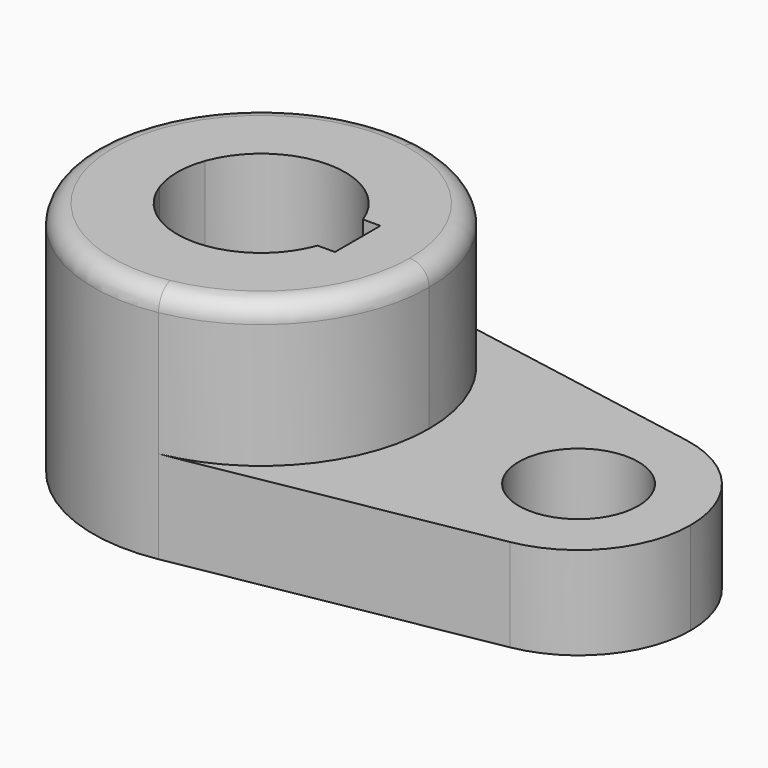
from build123d import *

# Parameters (mm, degrees)
F1_DEPTH = 40.2336
F0_R     = 10.16
F2_DEPTH = 15.7734
F3_R     = 3.302


with BuildPart() as f1:
    # F0 (on Top) → F1 (new body)
    with BuildSketch(Plane.XY):
        with BuildLine():
            ThreePointArc((-45.510295, 28.126541), (-79.127942, 0), (-45.510295, -28.126541))
            ThreePointArc((-45.510295, -28.126541), (-28.636917, -18.336262), (-21.977942, 0))
            ThreePointArc((-21.977942, 0), (-28.636917, 18.336262), (-45.510295, 28.126541))
        make_face()
        with BuildLine():
            ThreePointArc((-64.000707, 4.826), (-50.552942, 14.2875), (-37.105177, 4.826))
            Line((-37.105177, 4.826), (-34.144542, 4.826))
            Line((-34.144542, 4.826), (-34.144542, -4.826))
            Line((-34.144542, -4.826), (-37.105177, -4.826))
            ThreePointArc((-37.105177, -4.826), (-50.552942, -14.2875), (-64.000707, -4.826))
            ThreePointArc((-64.000707, -4.826), (-64.840442, 0), (-64.000707, 4.826))
        make_face(mode=Mode.SUBTRACT)
    extrude(amount=F1_DEPTH)

    # F0 (on Top) → F2 (join)
    with BuildSketch(Plane.XY):
        with BuildLine():
            Line((-45.510295, -28.126541), (6.783823, -18.751028))
            ThreePointArc((6.783823, -18.751028), (-15.627942, 0), (6.783823, 18.751028))
            Line((6.783823, 18.751028), (-45.510295, 28.126541))
            ThreePointArc((-45.510295, 28.126541), (-28.636917, 18.336262), (-21.977942, 0))
            ThreePointArc((-21.977942, 0), (-28.636917, -18.336262), (-45.510295, -28.126541))
        make_face()
        with BuildLine():
            ThreePointArc((6.783823, 18.751028), (-15.627942, 0), (6.783823, -18.751028))
            ThreePointArc((6.783823, -18.751028), (18.032741, -12.224174), (22.472058, 0))
            ThreePointArc((22.472058, 0), (18.032741, 12.224175), (6.783823, 18.751028))
        make_face()
        with Locations((3.422058, 0)):
            Circle(F0_R, mode=Mode.SUBTRACT)
    extrude(amount=F2_DEPTH)

    # F3
    f3_edges = [f1.edges().sort_by_distance(p)[0] for p in [
        (-55.595589, 28.126541, 40.2336),
    ]]
    fillet(f3_edges, radius=F3_R)


solid = f1.part
